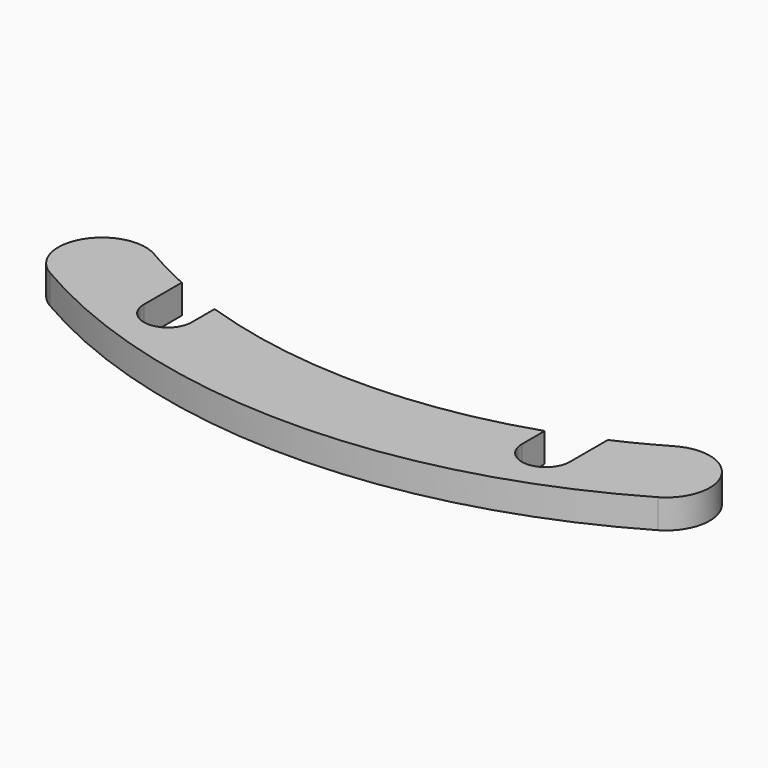
from build123d import *

# Parameters (mm, degrees)
F1_DEPTH = 1
F2_SCALE = 3


with BuildPart() as f1:
    # F0 (on Top) → F1 (new body)
    with BuildSketch(Plane.XY):
        with BuildLine():
            ThreePointArc((-7.325, -16.2229582691), (-8.1462477675, -15.8265172199), (-8.9461139896, -15.3885361385))
            ThreePointArc((-8.9461139896, -15.3885361385), (-10.9967867532, -15.9314368813), (-10.4538860104, -17.9821096449))
            ThreePointArc((-10.4538860104, -17.9821096449), (0, -20.8), (10.4538860104, -17.9821096449))
            ThreePointArc((10.4538860104, -17.9821096449), (10.9967867532, -15.9314368813), (8.9461139896, -15.3885361385))
            ThreePointArc((8.9461139896, -15.3885361385), (8.1462477675, -15.8265172199), (7.325, -16.2229582691))
            Line((7.325, -16.2229582691), (7.325, -17.8535710714))
            ThreePointArc((7.325, -17.8535710714), (6.5, -18.6785710714), (5.675, -17.8535710714))
            Line((5.675, -17.8535710714), (5.675, -16.8711106629))
            ThreePointArc((5.675, -16.8711106629), (0, -17.8), (-5.675, -16.8711106629))
            Line((-5.675, -16.8711106629), (-5.675, -17.8535710714))
            ThreePointArc((-5.675, -17.8535710714), (-6.5, -18.6785710714), (-7.325, -17.8535710714))
            Line((-7.325, -17.8535710714), (-7.325, -16.2229582691))
        make_face()
    extrude(amount=F1_DEPTH)


with BuildPart() as f1_1:
    # F2: moved
    add(f1.part.scale(F2_SCALE))


solid = f1_1.part
